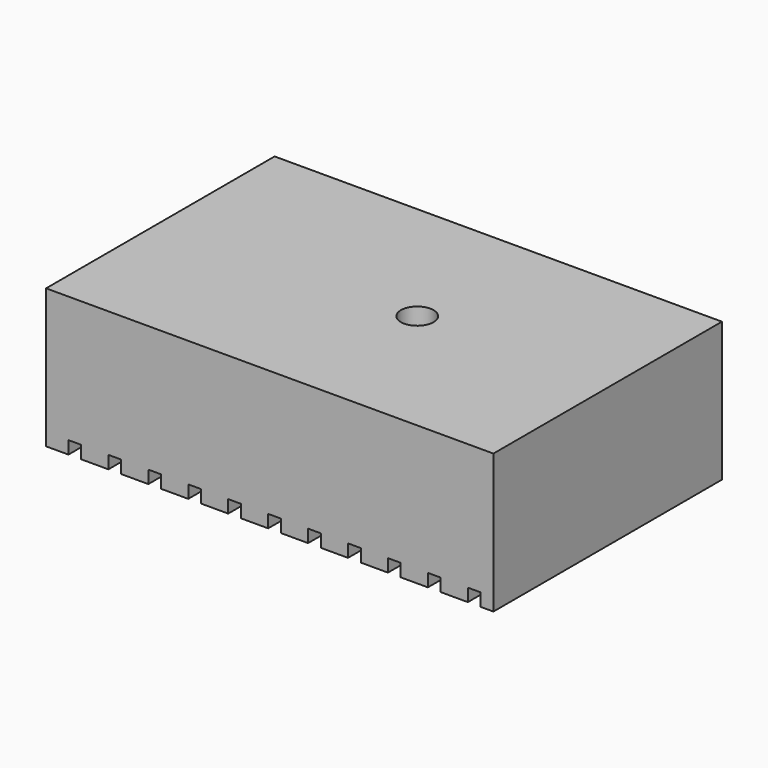
from build123d import *

# Parameters (mm, degrees)
F0_W     = 70
F0_H     = 44.7
F1_DEPTH = 21.77
F2_R     = 2.5527
F3_DEPTH = 15
F4_W     = 2
F4_H     = 44.7
F5_DEPTH = 2


with BuildPart() as f1:
    # F0 (on Top) → F1 (new body)
    with BuildSketch(Plane.XY):
        with Locations((35, 22.35)):
            Rectangle(F0_W, F0_H)
    extrude(amount=F1_DEPTH)

    # F2 (on face) → F3 (cut)
    with BuildSketch(Plane.XY.offset(21.77)):
        with Locations((40.014, 22.587)):
            Circle(F2_R)
    extrude(amount=-F3_DEPTH, mode=Mode.SUBTRACT)

    # F4 (on face) → F5 (cut)
    with BuildSketch(Plane(origin=(0, 0, 0), x_dir=(1, 0, 0), z_dir=(0, 0, -1))):
        with Locations((67, -22.35)):
            Rectangle(F4_W, F4_H)
        with Locations((60.75, -22.35)):
            Rectangle(F4_W, F4_H)
        with Locations((54.5, -22.35)):
            Rectangle(F4_W, F4_H)
        with Locations((48.25, -22.35)):
            Rectangle(F4_W, F4_H)
        with Locations((42, -22.35)):
            Rectangle(F4_W, F4_H)
        with Locations((35.75, -22.35)):
            Rectangle(F4_W, F4_H)
        with Locations((29.5, -22.35)):
            Rectangle(F4_W, F4_H)
        with Locations((23.25, -22.35)):
            Rectangle(F4_W, F4_H)
        with Locations((17, -22.35)):
            Rectangle(F4_W, F4_H)
        with Locations((10.75, -22.35)):
            Rectangle(F4_W, F4_H)
        with Locations((4.5, -22.35)):
            Rectangle(F4_W, F4_H)
        with Locations((-1.75, -22.35)):
            Rectangle(F4_W, F4_H)
    extrude(amount=-F5_DEPTH, mode=Mode.SUBTRACT)


solid = f1.part
